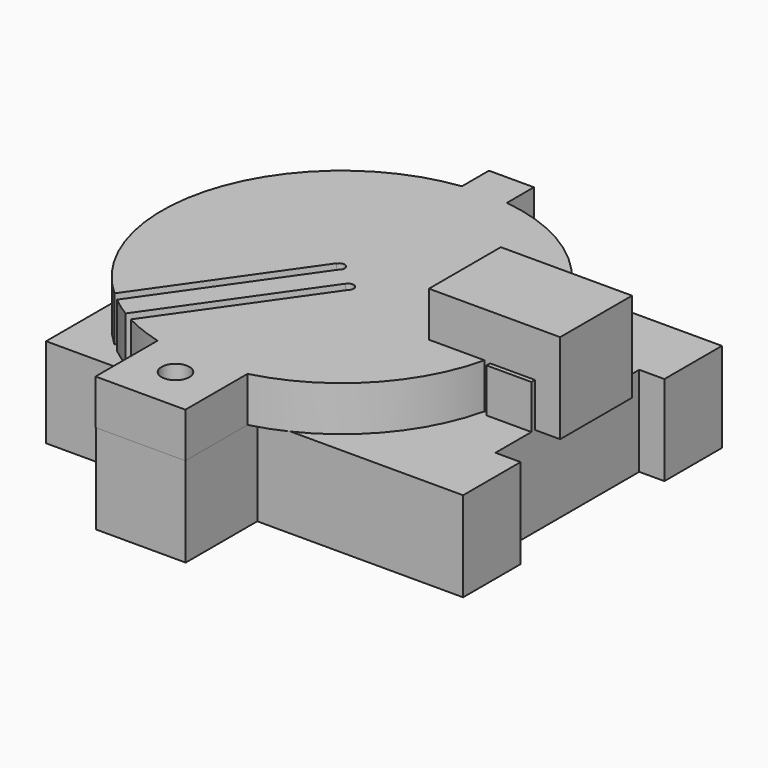
from build123d import *

# Parameters (mm, degrees)
BOX001_W               = 10
BOX001_H               = 10
BOX001_DEPTH           = 14.6
CYLINDER001_R          = 1.5
CYLINDER001_DEPTH      = 30
BOX002_W               = 10
BOX002_H               = 10
BOX002_DEPTH           = 10
BOX005_W               = 10
BOX005_H               = 20
BOX005_DEPTH           = 20
CYLINDER_R             = 13.2
CYLINDER_DEPTH         = 40
BOX_W                  = 10
BOX_H                  = 36
BOX_DEPTH              = 46.4
BOX004_W               = 5
BOX004_H               = 10
BOX004_DEPTH           = 5
BOX006_W               = 5
BOX006_H               = 5
BOX006_DEPTH           = 5
CYLINDER003_R          = 1.55
CYLINDER003_DEPTH      = 50
BOX003_W               = 10
BOX003_H               = 14
BOX003_DEPTH           = 5
BOX010_W               = 1.2
BOX010_H               = 30
BOX010_DEPTH           = 10
BOX010_ROLL_ANGLE      = 90
BOX010_PLACEMENT_ANGLE = -35
BOX009_W               = 1.2
BOX009_H               = 30
BOX009_DEPTH           = 10
BOX009_ROLL_ANGLE      = 90
BOX009_PLACEMENT_ANGLE = -35
BOX008_W               = 1.2
BOX008_H               = 30
BOX008_DEPTH           = 10
BOX008_PLACEMENT_ANGLE = 325
BOX007_W               = 1.2
BOX007_H               = 30
BOX007_DEPTH           = 10
BOX007_PLACEMENT_ANGLE = 325
CYLINDER006_R          = 0.6
CYLINDER006_DEPTH      = 30
CYLINDER005_R          = 0.6
CYLINDER005_DEPTH      = 30
CYLINDER004_R          = 2.7
CYLINDER004_DEPTH      = 10
CYLINDER002_R          = 20
CYLINDER002_DEPTH      = 5


with BuildPart() as cube001:
    # Box001 → Box001 (new body)
    with BuildSketch(Plane(origin=(12.1, -4.5, 10), x_dir=(0, 0, -1), z_dir=(1, 0, 0))):
        with Locations((5, 5)):
            Rectangle(BOX001_W, BOX001_H)
    extrude(amount=BOX001_DEPTH)


with BuildPart() as hingetabhole:
    # Cylinder001 → Cylinder001 (new body)
    with BuildSketch(Plane(origin=(-1.3, -23, -12), x_dir=(1, 0, 0), z_dir=(0, 0, 1))):
        Circle(CYLINDER001_R)
    extrude(amount=CYLINDER001_DEPTH)


with BuildPart() as mainpiecehingetab:
    # Box002 → Box002 (new body)
    with BuildSketch(Plane(origin=(-6.2, -27.952, -10), x_dir=(1, 0, 0), z_dir=(0, 0, 1))):
        with Locations((5, 5)):
            Rectangle(BOX002_W, BOX002_H)
    extrude(amount=BOX002_DEPTH)

    # Cut010: cut hingeTabHole
    add(hingetabhole.part, mode=Mode.SUBTRACT)


with BuildPart() as footcutout:
    # Box005 → Box005 (new body)
    with BuildSketch(Plane(origin=(23.9, -10, -18), x_dir=(1, 0, 0), z_dir=(0, 0, 1))):
        with Locations((5, 10)):
            Rectangle(BOX005_W, BOX005_H)
    extrude(amount=BOX005_DEPTH)


with BuildPart() as cardboardbarrelholder:
    # Cylinder → Cylinder (new body)
    with BuildSketch(Plane(origin=(-1.1, 0, -20), x_dir=(1, 0, 0), z_dir=(0, 0, 1))):
        Circle(CYLINDER_R)
    extrude(amount=CYLINDER_DEPTH)


with BuildPart() as mainpiece1:
    # Box → Box (new body)
    with BuildSketch(Plane(origin=(-19.7, -18, 0), x_dir=(0, 0, -1), z_dir=(1, 0, 0))):
        with Locations((5, 18)):
            Rectangle(BOX_W, BOX_H)
    extrude(amount=BOX_DEPTH)

    # Cut: cut cardboardBarrelHolder
    add(cardboardbarrelholder.part, mode=Mode.SUBTRACT)

    # Cut001: cut footCutout
    add(footcutout.part, mode=Mode.SUBTRACT)


with BuildPart() as mainpiece2:
    # Fusion base: copy of mainPiece1
    add(mainpiece1.part)

    # Fusion: union mainPieceHingeTab
    add(mainpiecehingetab.part)


with BuildPart() as swivelstop:
    # Box004 → Box004 (new body)
    with BuildSketch(Plane(origin=(18.9, -5, -0.1), x_dir=(1, 0, 0), z_dir=(0, 0, 1))):
        with Locations((2.5, 5)):
            Rectangle(BOX004_W, BOX004_H)
    extrude(amount=BOX004_DEPTH)


with BuildPart() as mainpiece3:
    # Fusion002 base: copy of mainPiece1
    add(mainpiece1.part)

    # Fusion002: union swivelStop
    add(swivelstop.part)


with BuildPart() as obj1:
    # Box006 → Box006 (new body)
    with BuildSketch(Plane(origin=(-3.7, 18.6, 0), x_dir=(1, 0, 0), z_dir=(0, 0, 1))):
        with Locations((2.5, 2.5)):
            Rectangle(BOX006_W, BOX006_H)
    extrude(amount=BOX006_DEPTH)


with BuildPart() as shuttertabhole:
    # Cylinder003 → Cylinder003 (new body)
    with BuildSketch(Plane(origin=(-1.3, -23, -12), x_dir=(1, 0, 0), z_dir=(0, 0, 1))):
        Circle(CYLINDER003_R)
    extrude(amount=CYLINDER003_DEPTH)


with BuildPart() as shutterhingetab001:
    # Box003 → Box003 (new body)
    with BuildSketch(Plane(origin=(-6.2, -28, 0), x_dir=(1, 0, 0), z_dir=(0, 0, 1))):
        with Locations((5, 7)):
            Rectangle(BOX003_W, BOX003_H)
    extrude(amount=BOX003_DEPTH)

    # Cut009: cut shutterTabHole
    add(shuttertabhole.part, mode=Mode.SUBTRACT)


with BuildPart() as radialtransit4:
    # Box010 → Box010 (new body)
    with BuildSketch(Plane.XY):
        with Locations((0.6, 15)):
            Rectangle(BOX010_W, BOX010_H)
    extrude(amount=BOX010_DEPTH)


with BuildPart() as radialtransit4_1:
    # Box010 roll: moved
    add(radialtransit4.part.rotate(Axis((0, 0, 0), (1, 0, 0)), BOX010_ROLL_ANGLE))


with BuildPart() as radialtransit4_2:
    # Box010 placement: moved
    add(radialtransit4_1.part.moved(Location((-14.008889, -13.784169, -4.1))).rotate(Axis((-14.008889, -13.784169, -4.1), (0, 0, 1)), BOX010_PLACEMENT_ANGLE))


with BuildPart() as radialtransit3:
    # Box009 → Box009 (new body)
    with BuildSketch(Plane.XY):
        with Locations((0.6, 15)):
            Rectangle(BOX009_W, BOX009_H)
    extrude(amount=BOX009_DEPTH)


with BuildPart() as radialtransit3_1:
    # Box009 roll: moved
    add(radialtransit3.part.rotate(Axis((0, 0, 0), (1, 0, 0)), BOX009_ROLL_ANGLE))


with BuildPart() as radialtransit3_2:
    # Box009 placement: moved
    add(radialtransit3_1.part.moved(Location((-10.871554, -16.103032, -4.1))).rotate(Axis((-10.871554, -16.103032, -4.1), (0, 0, 1)), BOX009_PLACEMENT_ANGLE))


with BuildPart() as radialtransit2:
    # Box008 → Box008 (new body)
    with BuildSketch(Plane.XY):
        with Locations((0.6, 15)):
            Rectangle(BOX008_W, BOX008_H)
    extrude(amount=BOX008_DEPTH)


with BuildPart() as radialtransit2_1:
    # Box008 placement: moved
    add(radialtransit2.part.moved(Location((-20.375588, -22.876757, 3.8))).rotate(Axis((-20.375588, -22.876757, 3.8), (0, 0, 1)), BOX008_PLACEMENT_ANGLE))


with BuildPart() as radialtransit1:
    # Box007 → Box007 (new body)
    with BuildSketch(Plane.XY):
        with Locations((0.6, 15)):
            Rectangle(BOX007_W, BOX007_H)
    extrude(amount=BOX007_DEPTH)


with BuildPart() as radialtransit1_1:
    # Box007 placement: moved
    add(radialtransit1.part.moved(Location((-17.352968, -25.35945, 3.8))).rotate(Axis((-17.352968, -25.35945, 3.8), (0, 0, 1)), BOX007_PLACEMENT_ANGLE))


with BuildPart() as obj2:
    # Cylinder006 → Cylinder006 (new body)
    with BuildSketch(Plane(origin=(-2.6, 1.4, -18), x_dir=(1, 0, 0), z_dir=(0, 0, 1))):
        Circle(CYLINDER006_R)
    extrude(amount=CYLINDER006_DEPTH)


with BuildPart() as obj3:
    # Cylinder005 → Cylinder005 (new body)
    with BuildSketch(Plane(origin=(0.4, -1.1, -18), x_dir=(1, 0, 0), z_dir=(0, 0, 1))):
        Circle(CYLINDER005_R)
    extrude(amount=CYLINDER005_DEPTH)


with BuildPart() as obj4:
    # Cylinder004 → Cylinder004 (new body)
    with BuildSketch(Plane(origin=(-1.2, 0, -8), x_dir=(1, 0, 0), z_dir=(0, 0, 1))):
        Circle(CYLINDER004_R)
    extrude(amount=CYLINDER004_DEPTH)


with BuildPart() as shutter4:
    # Cylinder002 → Cylinder002 (new body)
    with BuildSketch(Plane(origin=(-1.2, 0, 0), x_dir=(1, 0, 0), z_dir=(0, 0, 1))):
        Circle(CYLINDER002_R)
    extrude(amount=CYLINDER002_DEPTH)

    # Cut002: cut obj4
    add(obj4.part, mode=Mode.SUBTRACT)

    # Cut003: cut obj3
    add(obj3.part, mode=Mode.SUBTRACT)

    # Cut004: cut obj2
    add(obj2.part, mode=Mode.SUBTRACT)

    # Cut005: cut radialTransit1
    add(radialtransit1_1.part, mode=Mode.SUBTRACT)

    # Cut006: cut radialTransit2
    add(radialtransit2_1.part, mode=Mode.SUBTRACT)

    # Cut007: cut radialTransit3
    add(radialtransit3_2.part, mode=Mode.SUBTRACT)

    # Cut008: cut radialTransit4
    add(radialtransit4_2.part, mode=Mode.SUBTRACT)

    # Fusion001: union shutterHingeTab001
    add(shutterhingetab001.part)

    # Fusion003: union obj1
    add(obj1.part)


solid = Compound([cube001.part, mainpiece2.part, mainpiece3.part, shutter4.part])
